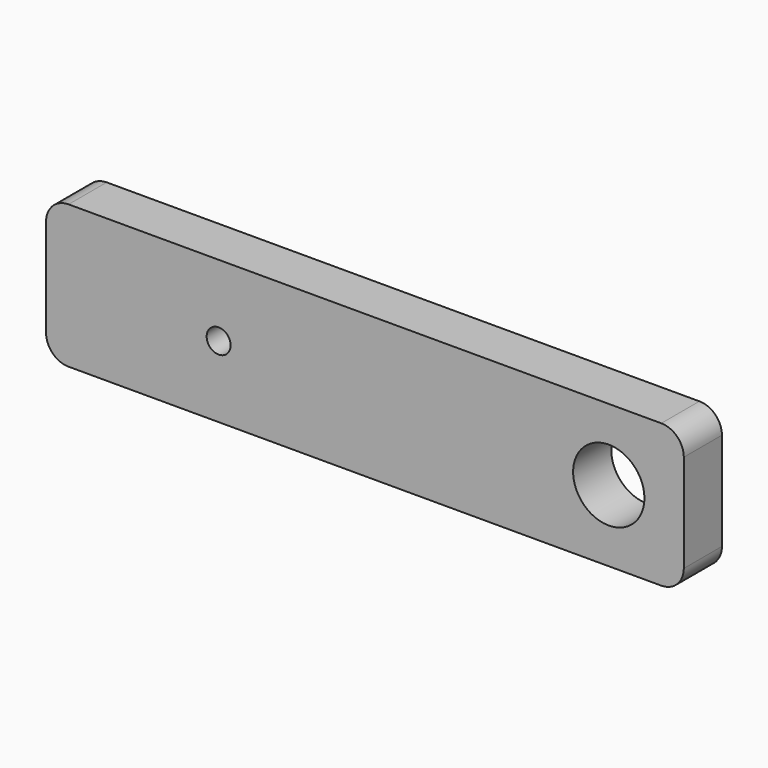
from build123d import *

# Parameters (mm, degrees)
F0_W     = 85
F0_H     = 19.05
F0_R     = 1.6
F0_R_2   = 4.75
F1_DEPTH = 3.175
F2_R     = 1.5
F3_DEPTH = 5
F4_R     = 3
F5_R     = 3


with BuildPart() as f1:
    # F0 (on Front) → F1 (new body, symmetric)
    with BuildSketch(Plane.XZ):
        Rectangle(F0_W, F0_H)
        with Locations((-19.5, 0)):
            Circle(F0_R, mode=Mode.SUBTRACT)
        with Locations((32.5, 0)):
            Circle(F0_R_2, mode=Mode.SUBTRACT)
    extrude(amount=F1_DEPTH, both=True)

    # F2 (on face) → F3 (cut)
    with BuildSketch(Plane(origin=(0, 0, -9.525), x_dir=(1, 0, 0), z_dir=(0, 0, -1))):
        with Locations((-25.5, 0)):
            Circle(F2_R)
        with Locations((25.5, 0)):
            Circle(F2_R)
    extrude(amount=-F3_DEPTH, mode=Mode.SUBTRACT)

    # F4
    f4_edges = [f1.edges().sort_by_distance(p)[0] for p in [
        (42.5, 0, 9.525),
    ]]
    fillet(f4_edges, radius=F4_R)

    # F5
    f5_edges = [f1.edges().sort_by_distance(p)[0] for p in [
        (-42.5, 0, 9.525),
        (-42.5, 0, -9.525),
        (42.5, 0, -9.525),
    ]]
    fillet(f5_edges, radius=F5_R)


solid = f1.part
